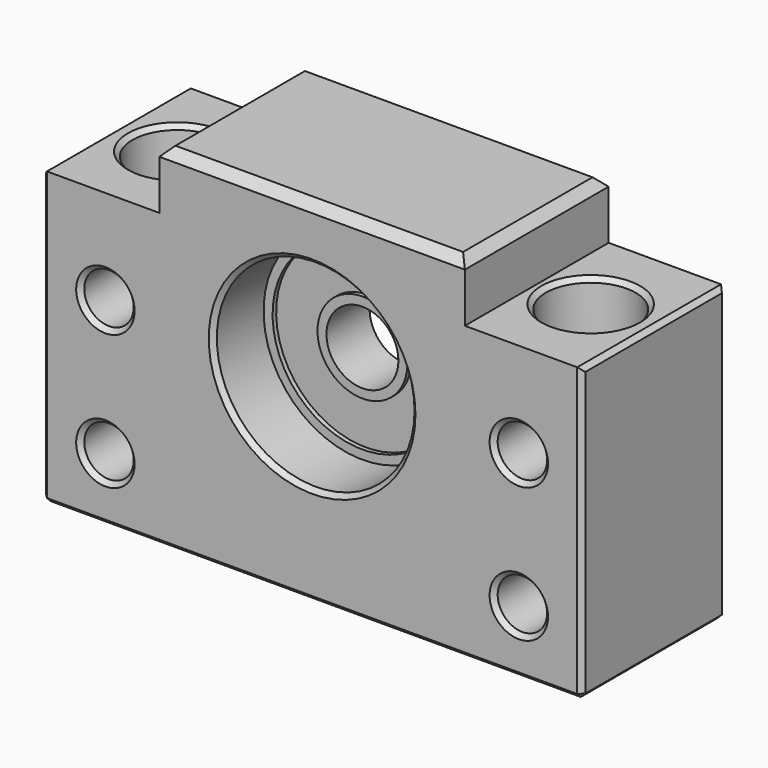
from build123d import *

# Parameters (mm, degrees)
SKETCH_R         = 11
PAD_DEPTH        = 10
SKETCH001_R      = 2.75
POCKET_DEPTH     = 20.001
SKETCH003_R      = 5
POCKET001_DEPTH  = 7
SKETCH004_R      = 2.75
POCKET002_DEPTH  = 39.001
CHAMFER_SIZE     = 1
CHAMFER001_SIZE  = 0.5
CHAMFER002_SIZE  = 0.5
CHAMFER003_SIZE  = 0.5
CHAMFER004_SIZE  = 0.5
CHAMFER005_SIZE  = 0.5
REVOLUTION_ANGLE = 360


with BuildPart() as housing_h_holes_chamfer:
    # Sketch → Pad (new body, symmetric)
    with BuildSketch(Plane.XZ):
        Polygon((-30, 32.5), (-30, 0), (30, 0), (30, 32.5), (17, 32.5), (17, 39), (-17, 39), (-17, 32.5), align=None)
        with Locations((0, 22)):
            Circle(SKETCH_R, mode=Mode.SUBTRACT)
    extrude(amount=PAD_DEPTH, both=True)

    # Sketch001 → Pocket (cut, through all)
    with BuildSketch(Plane.XZ.offset(10)):
        with Locations((-23, 22)):
            Circle(SKETCH001_R)
        with Locations((23, 22)):
            Circle(SKETCH001_R)
        with Locations((-23, 7)):
            Circle(SKETCH001_R)
        with Locations((23, 7)):
            Circle(SKETCH001_R)
    extrude(amount=-POCKET_DEPTH, mode=Mode.SUBTRACT)

    # Sketch003 → Pocket001 (cut)
    with BuildSketch(Plane(origin=(0, 0, 32.5), x_dir=(-1, 0, 0), z_dir=(0, 0, 1))):
        with Locations((-23, 0)):
            Circle(SKETCH003_R)
        with Locations((23, 0)):
            Circle(SKETCH003_R)
    extrude(amount=-POCKET001_DEPTH, mode=Mode.SUBTRACT)

    # Sketch004 → Pocket002 (cut, through all)
    with BuildSketch(Plane(origin=(0, 0, 0), x_dir=(1, 0, 0), z_dir=(0, 0, -1))):
        with Locations((-23, 0)):
            Circle(SKETCH004_R)
        with Locations((23, 0)):
            Circle(SKETCH004_R)
    extrude(amount=-POCKET002_DEPTH, mode=Mode.SUBTRACT)

    # Chamfer
    chamfer_edges = [housing_h_holes_chamfer.edges().sort_by_distance(p)[0] for p in [
        (-17, 0, 39),
        (0, 10, 39),
        (0, -10, 39),
        (17, 0, 39),
    ]]
    chamfer(chamfer_edges, length=CHAMFER_SIZE)

    # Chamfer001
    chamfer001_edges = [housing_h_holes_chamfer.edges().sort_by_distance(p)[0] for p in [
        (30, 0, 32.5),
        (30, -10, 16.25),
        (30, 10, 16.25),
        (30, 0, 0),
        (0, -10, 0),
        (0, 10, 0),
        (-30, 0, 0),
        (-30, 10, 16.25),
        (-30, 0, 32.5),
        (-30, -10, 16.25),
    ]]
    chamfer(chamfer001_edges, length=CHAMFER001_SIZE)

    # Chamfer002
    chamfer002_edges = [housing_h_holes_chamfer.edges().sort_by_distance(p)[0] for p in [
        (-11, -10, 22),
        (-11, 10, 22),
    ]]
    chamfer(chamfer002_edges, length=CHAMFER002_SIZE)

    # Chamfer003
    chamfer003_edges = [housing_h_holes_chamfer.edges().sort_by_distance(p)[0] for p in [
        (-18, 0, 32.5),
        (28, 0, 32.5),
    ]]
    chamfer(chamfer003_edges, length=CHAMFER003_SIZE)

    # Chamfer004
    chamfer004_edges = [housing_h_holes_chamfer.edges().sort_by_distance(p)[0] for p in [
        (20.25, 0, 0),
        (-25.75, 0, 0),
    ]]
    chamfer(chamfer004_edges, length=CHAMFER004_SIZE)

    # Chamfer005
    chamfer005_edges = [housing_h_holes_chamfer.edges().sort_by_distance(p)[0] for p in [
        (-25.75, -10, 22),
        (20.25, -10, 22),
        (20.25, -10, 7),
        (-25.75, -10, 7),
        (20.25, 10, 22),
        (-25.75, 10, 22),
        (-25.75, 10, 7),
        (20.25, 10, 7),
    ]]
    chamfer(chamfer005_edges, length=CHAMFER005_SIZE)


with BuildPart() as obj1:
    # Sketch002 → Revolution (revolve, symmetric)
    with BuildSketch(Plane.YZ) as revolution_sk:
        Polygon((3, 26), (-3, 26), (-3, 27), (-2.5, 27), (-2.5, 32), (-3, 32), (-3, 33), (3, 33), (3, 32), (2.5, 32), (2.5, 27), (3, 27), align=None)
    revolve(axis=Axis((0, -10, 22), (0, 1, 0)), revolution_arc=REVOLUTION_ANGLE / 2)
    revolve(revolution_sk.sketch, axis=Axis((0, -10, 22), (0, -1, 0)), revolution_arc=REVOLUTION_ANGLE / 2)

    # Fusion: union housing-h-holes-chamfer
    add(housing_h_holes_chamfer.part)


solid = obj1.part
